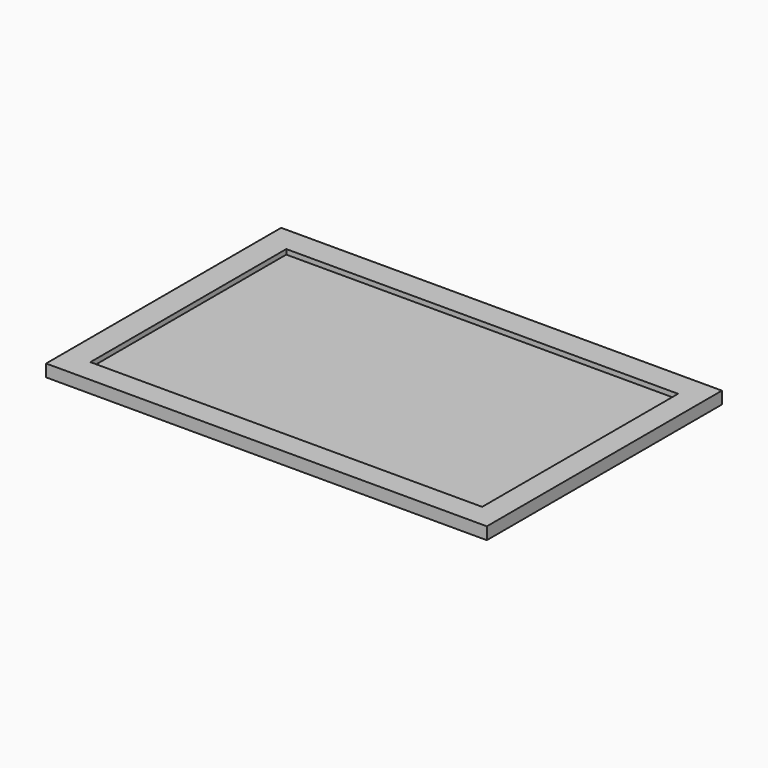
from build123d import *

# Parameters (mm, degrees)
SKETCH_W     = 160
SKETCH_H     = 100
PAD_DEPTH    = 2
SKETCH001_W  = 180
SKETCH001_H  = 120
PAD001_DEPTH = 5


with BuildPart() as pcb:
    # Sketch → Pad (new body)
    with BuildSketch(Plane(origin=(-1, 1, 3), x_dir=(1, 0, 0), z_dir=(0, 0, 1))):
        with Locations((11.269221, -1.548084)):
            Rectangle(SKETCH_W, SKETCH_H)
    extrude(amount=PAD_DEPTH)


with BuildPart() as portapcb:
    # Sketch001 → Pad001 (new body)
    with BuildSketch(Plane.XY):
        with Locations((9.825213, -0.104076)):
            Rectangle(SKETCH001_W, SKETCH001_H)
    extrude(amount=PAD001_DEPTH)

    # Cut: cut PCB
    add(pcb.part, mode=Mode.SUBTRACT)


solid = portapcb.part
